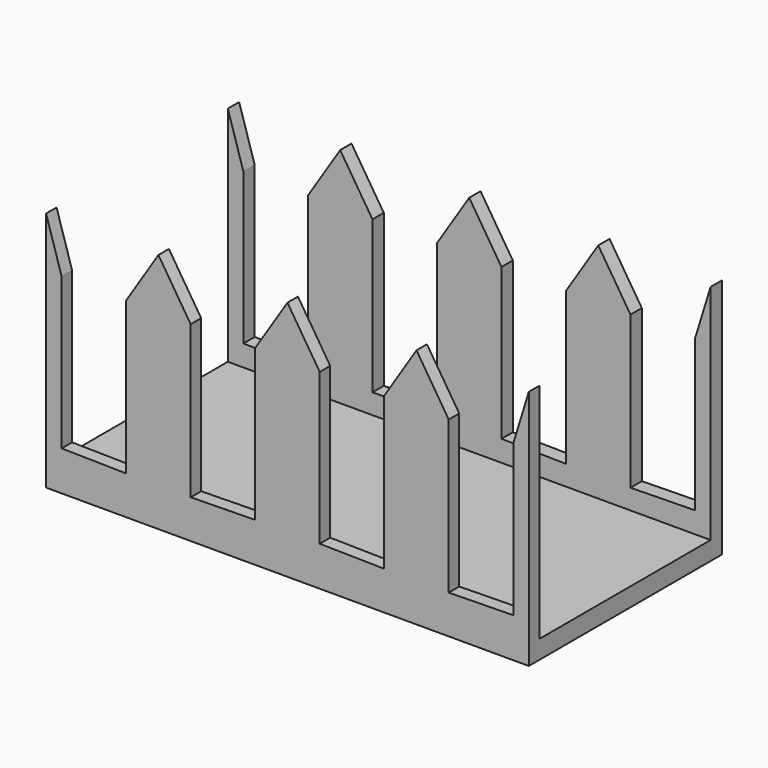
from build123d import *

# Parameters (mm, degrees)
F1_DEPTH = 76.2
F2_W     = 67.586093
F2_H     = 79.264563
F3_DEPTH = 177.8


with BuildPart() as f1:
    # F0 (on Front) → F1 (new body)
    with BuildSketch(Plane.XZ):
        Polygon((0, 76.2), (0, 0), (76.2, 0), (76.2, 76.2), (71.288093, 60.266774), (71.288093, 48.327021), (71.288093, 12.505721), (50.920066, 12.174042), (50.920066, 48.327021), (50.920066, 60.266774), (40.736053, 76.2), (30.55204, 60.266774), (30.55204, 48.327021), (30.55204, 12.174042), (10.184013, 12.505721), (10.184013, 48.327021), (10.184013, 60.266774), align=None)
        Polygon((-76.2, 0), (0, 0), (0, 76.2), (-10.184013, 60.266774), (-10.184013, 48.327021), (-10.184013, 12.505721), (-30.55204, 12.174042), (-30.55204, 48.327021), (-30.55204, 60.266774), (-40.736053, 76.2), (-50.920066, 60.266774), (-50.920066, 48.327021), (-50.920066, 12.174042), (-71.288093, 12.505721), (-71.288093, 48.327021), (-71.288093, 60.266774), (-76.2, 76.2), align=None)
    extrude(amount=F1_DEPTH)

    # F2 (on face) → F3 (cut)
    with BuildSketch(Plane.YZ.offset(76.2)):
        with Locations((-38.265653, 45.471521)):
            Rectangle(F2_W, F2_H)
    extrude(amount=-F3_DEPTH, mode=Mode.SUBTRACT)


solid = f1.part
